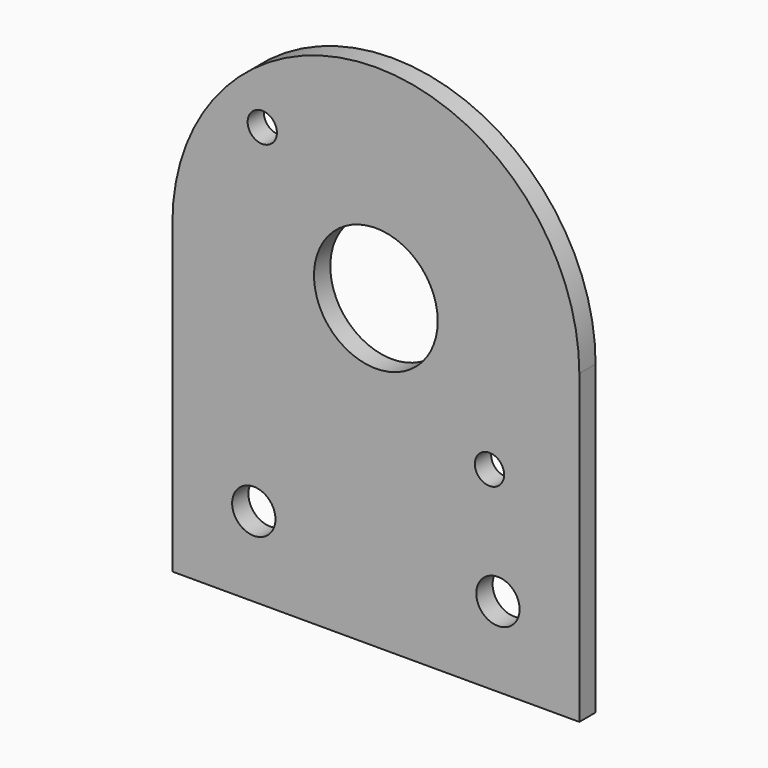
from build123d import *

# Parameters (mm, degrees)
F0_R     = 3.3782
F0_R_2   = 2.286
F0_R_3   = 9.652
F1_DEPTH = 3.175


with BuildPart() as f1:
    # F0 (on Front) → F1 (new body)
    with BuildSketch(Plane.XZ):
        with BuildLine():
            Line((31.75, -15.634657), (31.75, 0))
            ThreePointArc((31.75, 0), (0, 31.75), (-31.75, 0))
            Line((-31.75, 0), (-31.75, -15.634657))
            Line((-31.75, -15.634657), (-31.75, -47.865343))
            Line((-31.75, -47.865343), (31.75, -47.865343))
            Line((31.75, -47.865343), (31.75, -15.634657))
        make_face()
        with Locations((-19.05, -35.438904)):
            Circle(F0_R, mode=Mode.SUBTRACT)
        with Locations((19.05, -35.438904)):
            Circle(F0_R, mode=Mode.SUBTRACT)
        with Locations((17.7292, -17.7292)):
            Circle(F0_R_2, mode=Mode.SUBTRACT)
        with Locations((-17.7292, 17.7292)):
            Circle(F0_R_2, mode=Mode.SUBTRACT)
        Circle(F0_R_3, mode=Mode.SUBTRACT)
    extrude(amount=F1_DEPTH)


solid = f1.part
